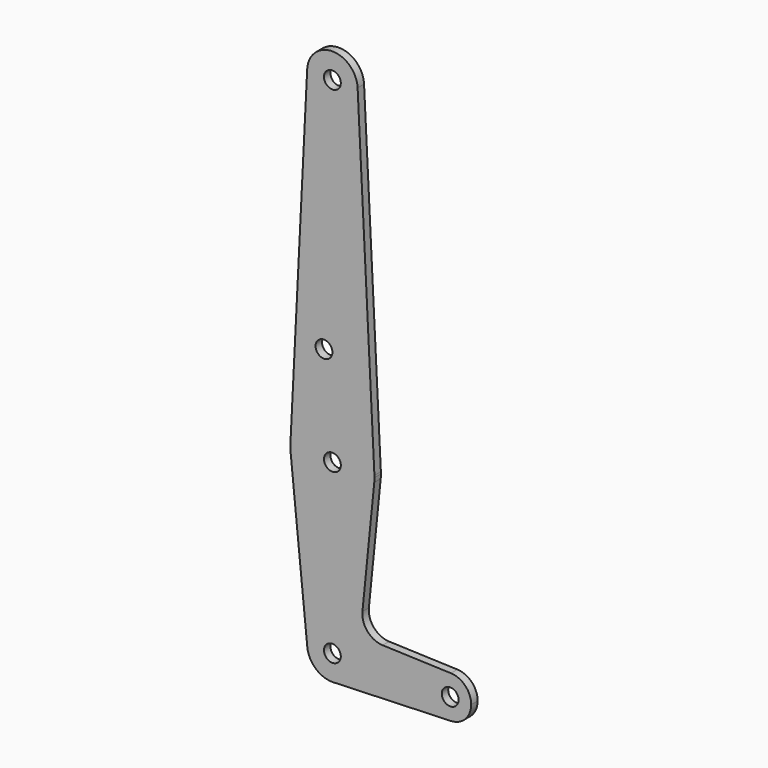
from build123d import *

# Parameters (mm, degrees)
F0_R     = 3.175
F1_DEPTH = 3.048


with BuildPart() as f1:
    # F0 (on Front) → F1 (new body)
    with BuildSketch(Plane.XZ):
        with BuildLine():
            ThreePointArc((-9.513086, 127.47625), (-0.238199, 117.477979), (9.525, 127))
            ThreePointArc((9.525, 127), (9.522021, 127.238199), (9.513086, 127.47625))
            ThreePointArc((9.513086, 127.47625), (0, 136.525), (-9.513086, 127.47625))
        make_face()
        with Locations((0, 127)):
            Circle(F0_R, mode=Mode.SUBTRACT)
        with BuildLine():
            ThreePointArc((9.513086, 127.47625), (9.522021, 127.238199), (9.525, 127))
            ThreePointArc((9.525, 127), (-0.238199, 117.477979), (-9.513086, 127.47625))
            Line((-9.513086, 127.47625), (-15.855144, 0.79375))
            ThreePointArc((-15.855144, 0.79375), (0, 15.875), (15.855144, 0.79375))
            Line((15.855144, 0.79375), (9.513086, 127.47625))
        make_face()
        with Locations((-3.175, 36.5252)):
            Circle(F0_R, mode=Mode.SUBTRACT)
        with BuildLine():
            ThreePointArc((15.875, 0), (15.870035, 0.396999), (15.855144, 0.79375))
            ThreePointArc((15.855144, 0.79375), (0, 15.875), (-15.855144, 0.79375))
            ThreePointArc((-15.855144, 0.79375), (-15.87001, -0.397997), (-15.795426, -1.5875))
            ThreePointArc((-15.795426, -1.5875), (0, -15.875), (15.795426, -1.5875))
            ThreePointArc((15.795426, -1.5875), (15.855094, -0.794747), (15.875, 0))
        make_face()
        Circle(F0_R, mode=Mode.SUBTRACT)
        with BuildLine():
            ThreePointArc((15.795426, -1.5875), (0, -15.875), (-15.795426, -1.5875))
            Line((-15.795426, -1.5875), (-9.477255, -64.4525))
            ThreePointArc((-9.477255, -64.4525), (-0.476848, -53.986944), (9.525, -63.5))
            ThreePointArc((9.525, -63.5), (6.970557, -69.991299), (0.677344, -73.000886))
            Line((0.677344, -73.000886), (44.732405, -71.432475))
            ThreePointArc((44.732405, -71.432475), (36.5125, -63.499461), (44.733482, -55.567564))
            Line((44.733482, -55.567564), (18.9676, -54.646766))
            ThreePointArc((18.9676, -54.646766), (13.2612, -51.928641), (11.341187, -45.906618))
            Line((11.341187, -45.906618), (15.795426, -1.5875))
        make_face()
        with BuildLine():
            ThreePointArc((9.525, -63.5), (-0.476848, -53.986944), (-9.477255, -64.4525))
            ThreePointArc((-9.477255, -64.4525), (-6.389564, -70.563929), (0, -73.025))
            Line((0, -73.025), (0.677344, -73.000886))
            ThreePointArc((0.677344, -73.000886), (6.970557, -69.991299), (9.525, -63.5))
        make_face()
        with Locations((0, -63.5)):
            Circle(F0_R, mode=Mode.SUBTRACT)
        with BuildLine():
            Line((0.677344, -73.000886), (0, -73.025))
            ThreePointArc((0, -73.025), (0.338886, -73.01897), (0.677344, -73.000886))
        make_face()
        with BuildLine():
            ThreePointArc((52.3875, -63.5), (50.162007, -57.988477), (44.733482, -55.567564))
            ThreePointArc((44.733482, -55.567564), (36.5125, -63.499461), (44.732405, -71.432475))
            ThreePointArc((44.732405, -71.432475), (50.161633, -69.01191), (52.3875, -63.5))
        make_face()
        with Locations((44.45, -63.5)):
            Circle(F0_R, mode=Mode.SUBTRACT)
    extrude(amount=F1_DEPTH)


solid = f1.part
